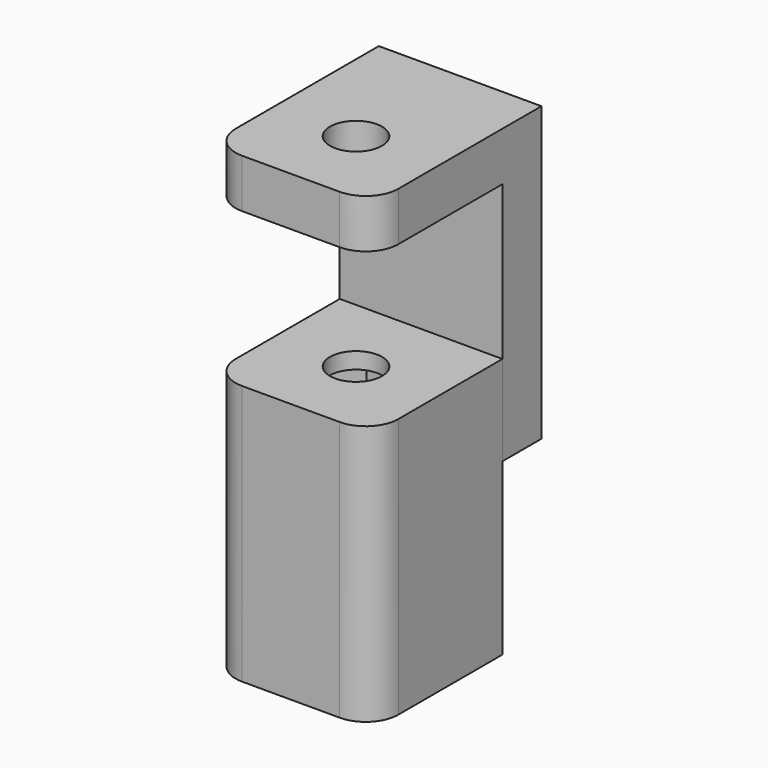
from build123d import *

# Parameters (mm, degrees)
SKETCH_W     = 10
SKETCH_H     = 10
SKETCH_R     = 1.6
PAD_DEPTH    = 1
SKETCH001_W  = 10
SKETCH001_H  = 10
PAD001_DEPTH = 15
FILLET001_R  = 2
PAD002_DEPTH = 5
SKETCH003_R  = 1.6
POCKET_DEPTH = 13.461834
FILLET_R     = 2


with BuildPart() as fix:
    # Sketch → Pad (new body)
    with BuildSketch(Plane.XY):
        Rectangle(SKETCH_W, SKETCH_H)
        Circle(SKETCH_R, mode=Mode.SUBTRACT)
    extrude(amount=PAD_DEPTH)

    # Sketch001 → Pad001 (join)
    with BuildSketch(Plane.XY):
        Rectangle(SKETCH001_W, SKETCH001_H)
        Polygon((1.645448, 2.85), (-1.645448, 2.85), (-3.290897, 0), (-1.645448, -2.85), (1.645448, -2.85), (3.290897, 0), align=None, mode=Mode.SUBTRACT)
    extrude(amount=-PAD001_DEPTH)

    # Fillet001
    fillet001_edges = [fix.edges().sort_by_distance(p)[0] for p in [
        (5, -5, 0.5),
        (5, -5, -7.5),
        (-5, -5, -7.5),
        (-5, -5, 0.5),
    ]]
    fillet(fillet001_edges, radius=FILLET001_R)


with BuildPart() as move:
    # Sketch002 → Pad002 (new body, symmetric)
    with BuildSketch(Plane.YZ):
        Polygon((-5, 10.460834), (5, 10.460834), (5, -4.539166), (8, -4.539166), (8, 13.460834), (-5, 13.460834), align=None)
    extrude(amount=PAD002_DEPTH, both=True)

    # Sketch003 → Pocket (cut, through all)
    with BuildSketch(Plane.XY):
        Circle(SKETCH003_R)
    extrude(amount=POCKET_DEPTH, mode=Mode.SUBTRACT)

    # Fillet
    fillet_edges = [move.edges().sort_by_distance(p)[0] for p in [
        (-5, -5, 11.960834),
        (5, -5, 11.960834),
    ]]
    fillet(fillet_edges, radius=FILLET_R)


solid = Compound([fix.part, move.part])
